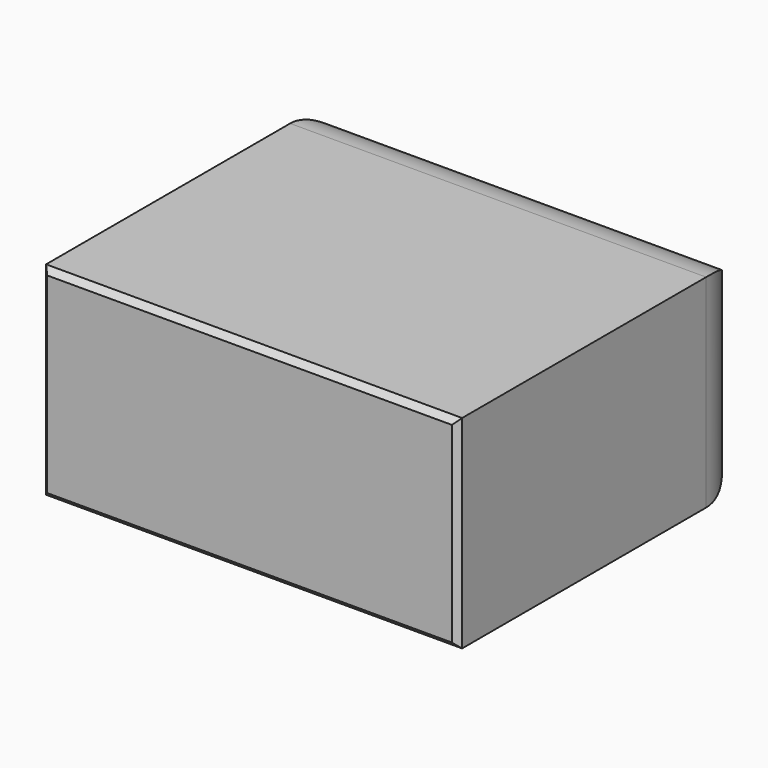
from build123d import *

# Parameters (mm, degrees)
F0_W     = 93.609646
F0_H     = 82.611128
F1_DEPTH = 45.649247
F2_SIZE  = 1.27
F3_R     = 12.7


with BuildPart() as f1:
    # F0 (on Top) → F1 (new body)
    with BuildSketch(Plane.XY):
        with Locations((3.299557, -1.955293)):
            Rectangle(F0_W, F0_H)
    extrude(amount=F1_DEPTH)

    # F2
    f2_edges = [f1.edges().sort_by_distance(p)[0] for p in [
        (-43.505266, -43.260857, 22.824624),
        (50.10438, -43.260857, 22.824624),
        (3.299557, -43.260857, 0),
        (3.299557, -43.260857, 45.649247),
    ]]
    chamfer(f2_edges, length=F2_SIZE)

    # F3
    f3_edges = [f1.edges().sort_by_distance(p)[0] for p in [
        (50.10438, 39.350271, 22.824624),
        (-43.505266, 39.350271, 22.824624),
        (3.299557, 39.350271, 0),
        (3.299557, 39.350271, 45.649247),
    ]]
    fillet(f3_edges, radius=F3_R)


solid = f1.part
